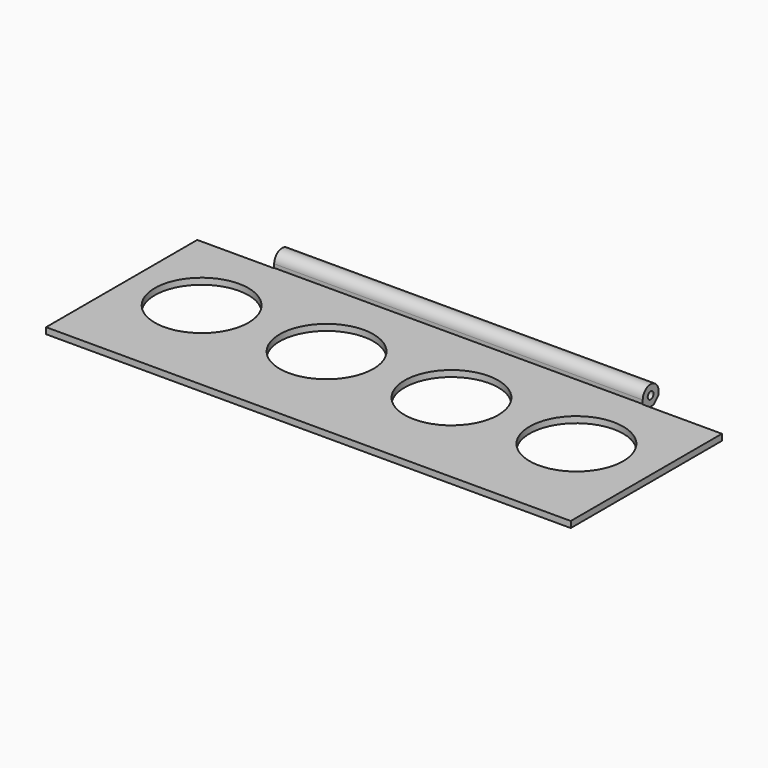
from build123d import *

# Parameters (mm, degrees)
SKETCH137_R      = 15
EXTRUDE127_DEPTH = 4
SKETCH078_W      = 25.5
SKETCH078_H      = 8
EXTRUDE070_DEPTH = 7
SKETCH075_R      = 1.16
EXTRUDE067_DEPTH = 168


with BuildPart() as extrude127:
    # Sketch137 → Extrude127 (new body)
    with BuildSketch(Plane(origin=(0, 0, -28), x_dir=(1, 0, 0), z_dir=(0, 0, -1))):
        with Locations((150, -245)):
            Circle(SKETCH137_R)
        with Locations((190, -245)):
            Circle(SKETCH137_R)
        with Locations((70, -245)):
            Circle(SKETCH137_R)
        with Locations((110, -245)):
            Circle(SKETCH137_R)
    extrude(amount=-EXTRUDE127_DEPTH)


with BuildPart() as compound026:
    # Sketch078 → Extrude070 (new body)
    with BuildSketch(Plane(origin=(0, 279, 0), x_dir=(-1, 0, 0), z_dir=(0, 1, 0))):
        with Locations((-202.25, -24)):
            Rectangle(SKETCH078_W, SKETCH078_H)
        with Locations((-58.75, -24)):
            Rectangle(SKETCH078_W, SKETCH078_H)
    extrude(amount=-EXTRUDE070_DEPTH)

    # Compound026: union Extrude127
    add(extrude127.part)


with BuildPart() as battery_lid:
    # Sketch075 → Extrude067 (new body)
    with BuildSketch(Plane.YZ.offset(47)):
        with BuildLine():
            Line((272.18, -25), (211.5, -25))
            Line((211.5, -25), (211.5, -27))
            Line((211.5, -27), (276.5, -27))
            Line((278.5, -25), (276.5, -27))
            Line((278.5, -25), (278.5, -23.84))
            ThreePointArc((278.5, -23.84), (275.34, -20.68), (272.18, -23.84))
            Line((272.18, -23.84), (272.18, -25))
        make_face()
        with Locations((275.34, -23.84)):
            Circle(SKETCH075_R, mode=Mode.SUBTRACT)
    extrude(amount=EXTRUDE067_DEPTH)

    # Cut014: cut Compound026
    add(compound026.part, mode=Mode.SUBTRACT)


solid = battery_lid.part
